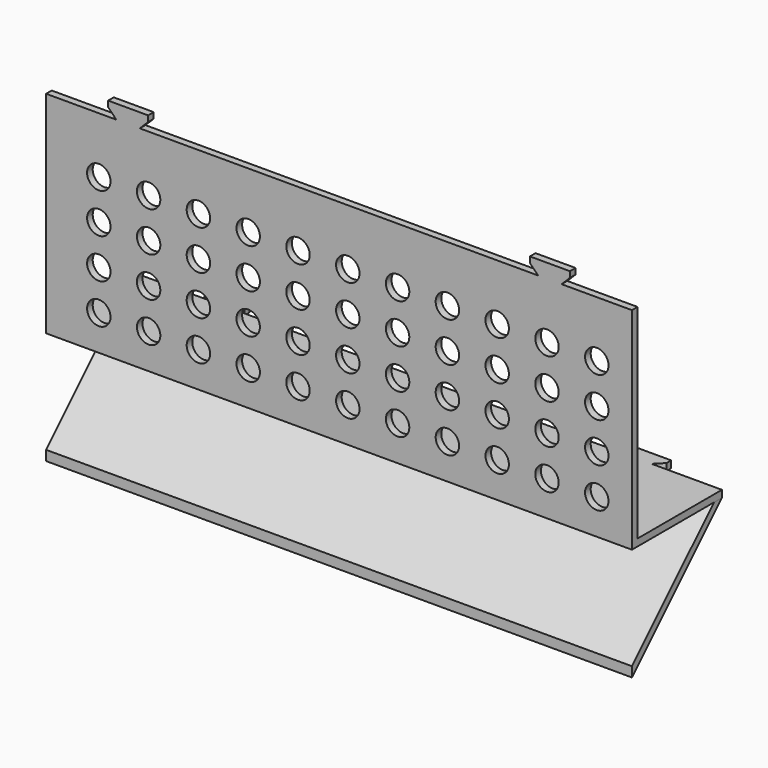
from build123d import *

# Parameters (mm, degrees)
F0_R     = 2
F1_DEPTH = 1.2
F3_DEPTH = 1.2
F5_DEPTH = 100


with BuildPart() as f1:
    # F0 (on Front) → F1 (new body)
    with BuildSketch(Plane.XZ):
        Polygon((0, 36), (0, 0), (100, 0), (100, 36), (88, 36), (89.414214, 37.414214), (89.414214, 38.414214), (82.585786, 38.414214), (82.585786, 37.414214), (84, 36), (16, 36), (17.414214, 37.414214), (17.414214, 38.414214), (10.585786, 38.414214), (10.585786, 37.414214), (12, 36), align=None)
        with Locations((9, 6)):
            Circle(F0_R, mode=Mode.SUBTRACT)
        with Locations((17.5, 6)):
            Circle(F0_R, mode=Mode.SUBTRACT)
        with Locations((26, 6)):
            Circle(F0_R, mode=Mode.SUBTRACT)
        with Locations((34.5, 6)):
            Circle(F0_R, mode=Mode.SUBTRACT)
        with Locations((43, 6)):
            Circle(F0_R, mode=Mode.SUBTRACT)
        with Locations((9, 12.8)):
            Circle(F0_R, mode=Mode.SUBTRACT)
        with Locations((17.5, 12.8)):
            Circle(F0_R, mode=Mode.SUBTRACT)
        with Locations((26, 12.8)):
            Circle(F0_R, mode=Mode.SUBTRACT)
        with Locations((34.5, 12.8)):
            Circle(F0_R, mode=Mode.SUBTRACT)
        with Locations((43, 12.8)):
            Circle(F0_R, mode=Mode.SUBTRACT)
        with Locations((51.5, 6)):
            Circle(F0_R, mode=Mode.SUBTRACT)
        with Locations((60, 6)):
            Circle(F0_R, mode=Mode.SUBTRACT)
        with Locations((68.5, 6)):
            Circle(F0_R, mode=Mode.SUBTRACT)
        with Locations((77, 6)):
            Circle(F0_R, mode=Mode.SUBTRACT)
        with Locations((85.5, 6)):
            Circle(F0_R, mode=Mode.SUBTRACT)
        with Locations((94, 6)):
            Circle(F0_R, mode=Mode.SUBTRACT)
        with Locations((51.5, 12.8)):
            Circle(F0_R, mode=Mode.SUBTRACT)
        with Locations((60, 12.8)):
            Circle(F0_R, mode=Mode.SUBTRACT)
        with Locations((68.5, 12.8)):
            Circle(F0_R, mode=Mode.SUBTRACT)
        with Locations((77, 12.8)):
            Circle(F0_R, mode=Mode.SUBTRACT)
        with Locations((85.5, 12.8)):
            Circle(F0_R, mode=Mode.SUBTRACT)
        with Locations((94, 12.8)):
            Circle(F0_R, mode=Mode.SUBTRACT)
        with Locations((9, 19.6)):
            Circle(F0_R, mode=Mode.SUBTRACT)
        with Locations((17.5, 19.6)):
            Circle(F0_R, mode=Mode.SUBTRACT)
        with Locations((9, 26.4)):
            Circle(F0_R, mode=Mode.SUBTRACT)
        with Locations((17.5, 26.4)):
            Circle(F0_R, mode=Mode.SUBTRACT)
        with Locations((26, 19.6)):
            Circle(F0_R, mode=Mode.SUBTRACT)
        with Locations((34.5, 19.6)):
            Circle(F0_R, mode=Mode.SUBTRACT)
        with Locations((43, 19.6)):
            Circle(F0_R, mode=Mode.SUBTRACT)
        with Locations((26, 26.4)):
            Circle(F0_R, mode=Mode.SUBTRACT)
        with Locations((34.5, 26.4)):
            Circle(F0_R, mode=Mode.SUBTRACT)
        with Locations((43, 26.4)):
            Circle(F0_R, mode=Mode.SUBTRACT)
        with Locations((51.5, 19.6)):
            Circle(F0_R, mode=Mode.SUBTRACT)
        with Locations((60, 19.6)):
            Circle(F0_R, mode=Mode.SUBTRACT)
        with Locations((68.5, 19.6)):
            Circle(F0_R, mode=Mode.SUBTRACT)
        with Locations((51.5, 26.4)):
            Circle(F0_R, mode=Mode.SUBTRACT)
        with Locations((60, 26.4)):
            Circle(F0_R, mode=Mode.SUBTRACT)
        with Locations((68.5, 26.4)):
            Circle(F0_R, mode=Mode.SUBTRACT)
        with Locations((77, 19.6)):
            Circle(F0_R, mode=Mode.SUBTRACT)
        with Locations((85.5, 19.6)):
            Circle(F0_R, mode=Mode.SUBTRACT)
        with Locations((94, 19.6)):
            Circle(F0_R, mode=Mode.SUBTRACT)
        with Locations((77, 26.4)):
            Circle(F0_R, mode=Mode.SUBTRACT)
        with Locations((85.5, 26.4)):
            Circle(F0_R, mode=Mode.SUBTRACT)
        with Locations((94, 26.4)):
            Circle(F0_R, mode=Mode.SUBTRACT)
    extrude(amount=F1_DEPTH)

    # F2 (on Top) → F3 (join)
    with BuildSketch(Plane.XY):
        Polygon((0, 18), (0, 0), (100, 0), (100, 18), (88, 18), (89.414214, 19.414214), (89.414214, 20.414214), (82.585786, 20.414214), (82.585786, 19.414214), (84, 18), (16, 18), (17.414214, 19.414214), (17.414214, 20.414214), (10.585786, 20.414214), (10.585786, 19.414214), (12, 18), align=None)
    extrude(amount=F3_DEPTH)


with BuildPart() as f5:
    # F4 (on face) → F5 (new body)
    with BuildSketch(Plane(origin=(0, 0, 0), x_dir=(0, -1, 0), z_dir=(-1, 0, 0))):
        Polygon((1.2, -19.2), (1.2, -17.502944), (-16.302944, 0), (-18, 0), align=None)
    extrude(amount=-F5_DEPTH)


solid = Compound([f1.part, f5.part])
